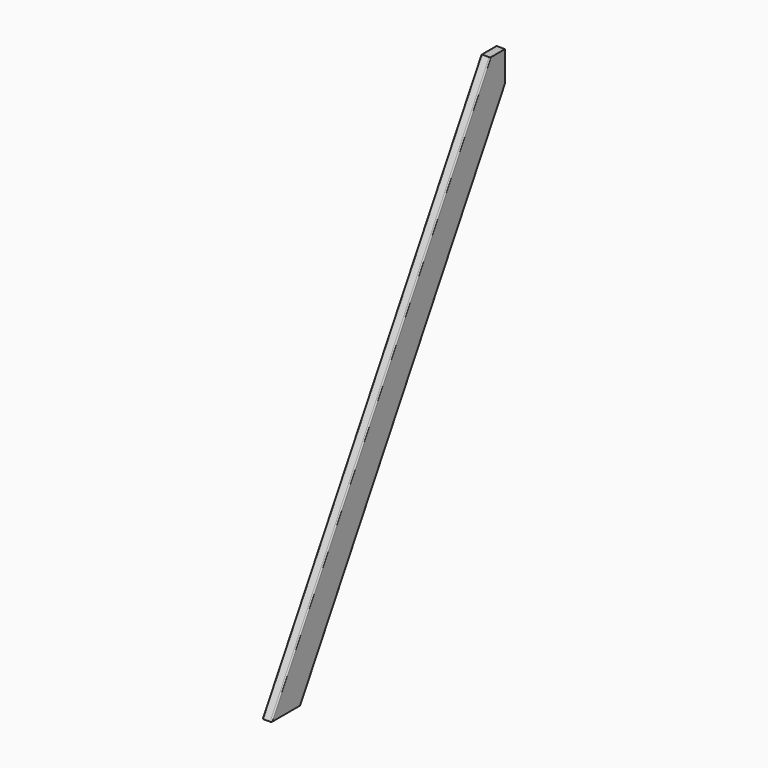
from build123d import *

# Parameters (mm, degrees)
F1_DEPTH = 25.4
F2_R     = 3.175


with BuildPart() as f1:
    # F0 (on Right) → F1 (new body)
    with BuildSketch(Plane.YZ):
        Polygon((762.564236, 1320.8), (0, 0), (102.652878, 0), (813.890674, 1231.9), (813.890674, 1320.8), align=None)
    extrude(amount=F1_DEPTH)

    # F2
    f2_edges = [f1.edges().sort_by_distance(p)[0] for p in [
        (25.4, 381.282118, 660.4),
        (0, 381.282118, 660.4),
        (0, 813.890674, 1276.35),
        (0, 788.227455, 1320.8),
        (0, 51.326439, 0),
        (0, 458.271776, 615.95),
        (25.4, 458.271776, 615.95),
    ]]
    fillet(f2_edges, radius=F2_R)


solid = f1.part
